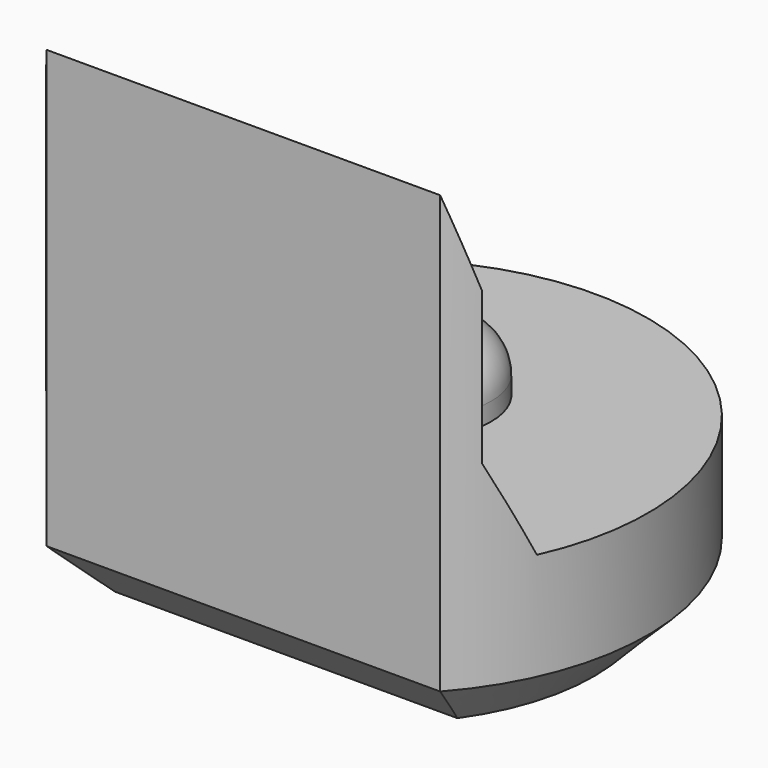
from build123d import *

# Parameters (mm, degrees)
PAD003_DEPTH         = 5.5
POCKET004_DEPTH      = 2.951
POCKET004_DEPTH_BACK = 2.951
SKETCH013_R          = 0.8
PAD006_DEPTH         = 0.7
FILLET_R             = 0.5
CHAMFER004_SIZE      = 0.6


with BuildPart() as part:
    # Sketch004 → Pad003 (new body)
    with BuildSketch(Plane.XY):
        with BuildLine():
            ThreePointArc((2.2, -1.9653244007), (0, 2.95), (-2.2, -1.9653244007))
            Line((-2.2, -1.9653244007), (2.2, -1.9653244007))
        make_face()
    extrude(amount=PAD003_DEPTH)

    # Sketch014 → Pocket004 (cut, two sides)
    with BuildSketch(Plane.YZ) as pocket004_sk:
        Polygon((-1.97, 5.5), (-1.67, 4.5), (-1.67, 2.8), (-1.22, 1.8), (4, 1.8), (4, 5.5), align=None)
    extrude(amount=-POCKET004_DEPTH, mode=Mode.SUBTRACT)
    extrude(pocket004_sk.sketch, amount=POCKET004_DEPTH_BACK, mode=Mode.SUBTRACT)

    # Sketch013 (on Face7 of Pocket004) → Pad006 (join)
    with BuildSketch(Plane.XY.offset(1.8)):
        with Locations((0, 0.5)):
            Circle(SKETCH013_R)
    extrude(amount=PAD006_DEPTH)

    # Fillet
    fillet_edges = [part.edges().sort_by_distance(p)[0] for p in [
        (-0.8, 0.5, 2.5),
    ]]
    fillet(fillet_edges, radius=FILLET_R)

    # Chamfer004
    chamfer004_edges = [part.edges().sort_by_distance(p)[0] for p in [
        (0, 2.95, 0),
        (0, -1.965324, 0),
    ]]
    chamfer(chamfer004_edges, length=CHAMFER004_SIZE)


with BuildPart() as part_1:
    # Body032 placement: moved
    add(part.part.moved(Location((0, 78, 0))))


solid = part_1.part
